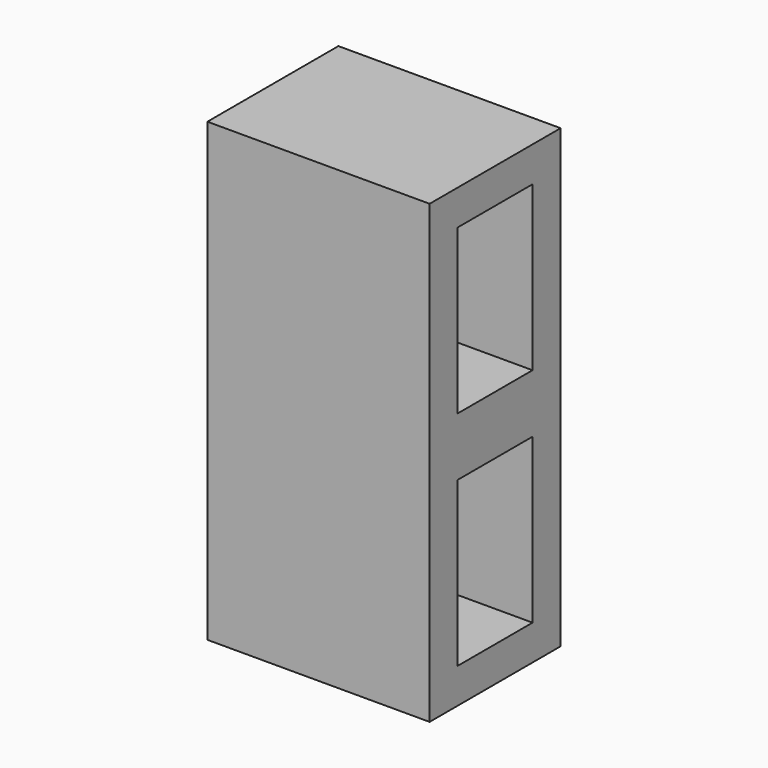
from build123d import *

# Parameters (mm, degrees)
BOX010_W               = 140
BOX010_H               = 80
BOX010_DEPTH           = 190
BOX011_W               = 140
BOX011_H               = 80
BOX011_DEPTH           = 190
BOX012_W               = 390
BOX012_H               = 140
BOX012_DEPTH           = 190
CUT001_PLACEMENT_ANGLE = 90


with BuildPart() as cube004:
    # Box010 → Box010 (new body)
    with BuildSketch(Plane(origin=(220, 30, 0), x_dir=(1, 0, 0), z_dir=(0, 0, 1))):
        with Locations((70, 40)):
            Rectangle(BOX010_W, BOX010_H)
    extrude(amount=BOX010_DEPTH)


with BuildPart() as fusion004:
    # Box011 → Box011 (new body)
    with BuildSketch(Plane(origin=(30, 30, 0), x_dir=(1, 0, 0), z_dir=(0, 0, 1))):
        with Locations((70, 40)):
            Rectangle(BOX011_W, BOX011_H)
    extrude(amount=BOX011_DEPTH)

    # Fusion004: union Cube004
    add(cube004.part)


with BuildPart() as cut001:
    # Box012 → Box012 (new body)
    with BuildSketch(Plane.XY):
        with Locations((195, 70)):
            Rectangle(BOX012_W, BOX012_H)
    extrude(amount=BOX012_DEPTH)

    # Cut001: cut Fusion004
    add(fusion004.part, mode=Mode.SUBTRACT)


with BuildPart() as cut001_1:
    # Cut001 placement: moved
    add(cut001.part.moved(Location((230, -205, -400))).rotate(Axis((230, -205, -400), (0, 1, 0)), CUT001_PLACEMENT_ANGLE))


solid = cut001_1.part
